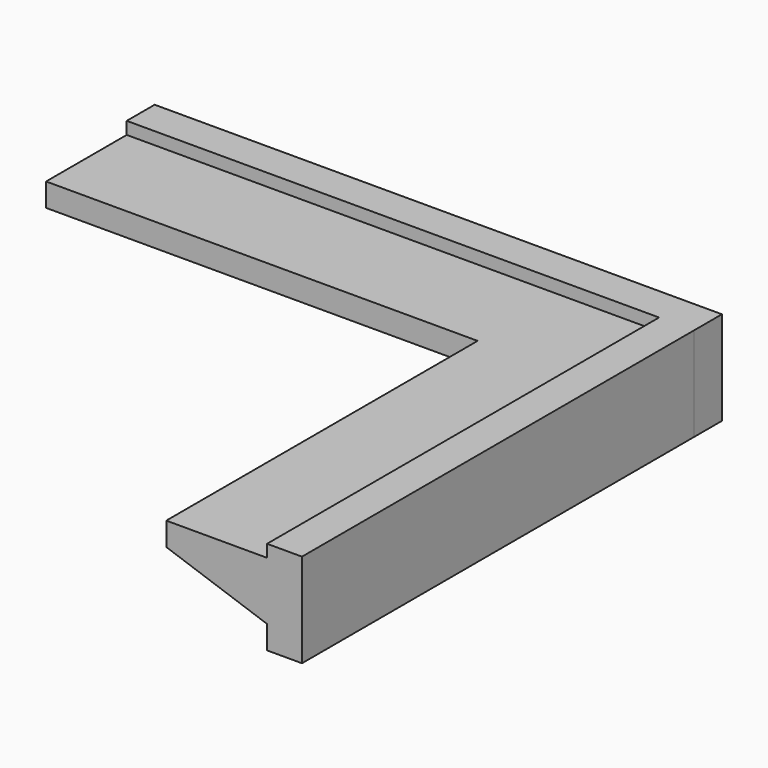
from build123d import *

# Parameters (mm, degrees)
F0_W     = 123.791181
F0_H     = 20.48449
F1_DEPTH = 7.62
F2_W     = 7.62
F2_H     = 20.48449
F3_DEPTH = 106.934
F5_DEPTH = 116.171181
F7_DEPTH = 106.934


with BuildPart() as f1:
    # F0 (on Front) → F1 (new body)
    with BuildSketch(Plane.XZ):
        with Locations((61.89559, 10.242245)):
            Rectangle(F0_W, F0_H)
    extrude(amount=F1_DEPTH)

    # F2 (on face) → F3 (join)
    with BuildSketch(Plane.XZ.offset(7.62)):
        with Locations((119.981181, 10.242245)):
            Rectangle(F2_W, F2_H)
    extrude(amount=F3_DEPTH)

    # F4 (on face) → F5 (join, through all)
    with BuildSketch(Plane(origin=(0, 0, 0), x_dir=(0, -1, 0), z_dir=(-1, 0, 0))):
        Polygon((7.62, 17.78), (7.62, 5.08), (29.617045, 12.7), (29.617045, 17.78), align=None)
    extrude(amount=-F5_DEPTH)

    # F6 (on face) → F7 (join, through all)
    with BuildSketch(Plane.XZ.offset(114.554)):
        Polygon((94.174135, 12.7), (116.171181, 5.08), (116.171181, 17.78), (94.174135, 17.78), align=None)
    extrude(amount=-F7_DEPTH)


solid = f1.part
